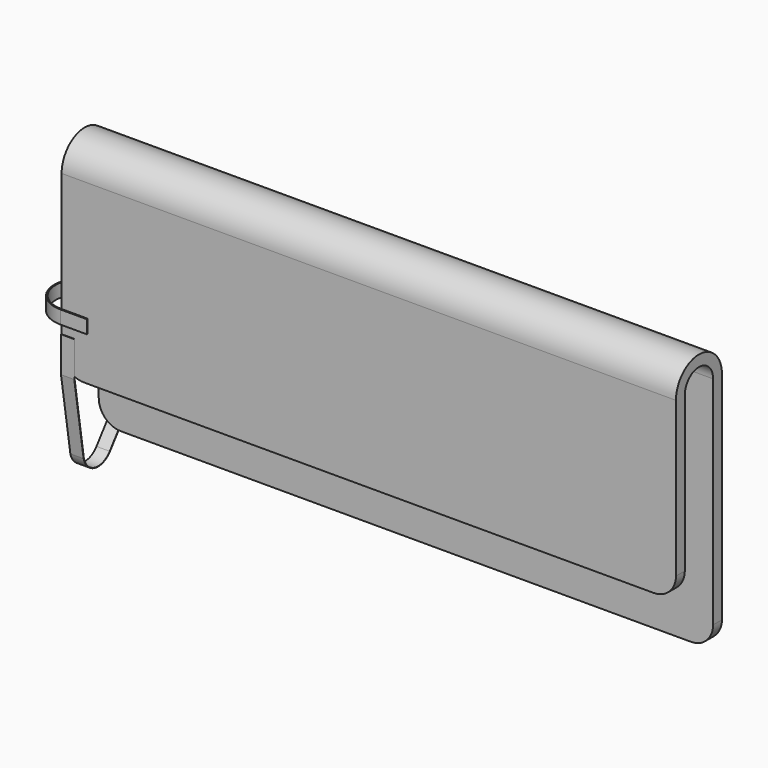
from build123d import *

# Parameters (mm, degrees)
F1_DEPTH  = 1390
F2_W      = 230
F2_H      = 70
F3_DEPTH  = 25
F4_R      = 50
F5_DEPTH  = 30
F8_DEPTH  = 30
F9_W      = 290
F9_H      = 150
F9_W_2    = 230
F9_H_2    = 70
F10_DEPTH = 3
F11_R     = 20


with BuildPart() as f1:
    # F0 (on Right) → F1 (new body)
    with BuildSketch(Plane.YZ):
        with BuildLine():
            ThreePointArc((65, 0), (0, 65), (-65, 0))
            Line((-65, 0), (-65, -400))
            Line((-65, -400), (-40, -400))
            Line((-40, -400), (-40, 0))
            ThreePointArc((-40, 0), (0, 40), (40, 0))
            Line((40, 0), (40, -540))
            Line((40, -540), (65, -540))
            Line((65, -540), (65, 0))
        make_face()
    extrude(amount=F1_DEPTH)

    # F2 (on face) → F3 (cut, through all)
    with BuildSketch(Plane(origin=(0, 65, 0), x_dir=(-1, 0, 0), z_dir=(0, 1, 0))):
        with Locations((-695, -130)):
            Rectangle(F2_W, F2_H)
    extrude(amount=-F3_DEPTH, mode=Mode.SUBTRACT)

    # F4
    f4_edges = [f1.edges().sort_by_distance(p)[0] for p in [
        (1390, 52.5, -540),
        (0, 52.5, -540),
        (0, -52.5, -400),
        (1390, -52.5, -400),
    ]]
    fillet(f4_edges, radius=F4_R)

    # F9 (on face) → F10 (join)
    with BuildSketch(Plane(origin=(0, 65, 0), x_dir=(-1, 0, 0), z_dir=(0, 1, 0))):
        with Locations((-695, -140)):
            Rectangle(F9_W, F9_H)
        with Locations((-695, -130)):
            Rectangle(F9_W_2, F9_H_2, mode=Mode.SUBTRACT)
        with Locations((-695, -130)):
            Rectangle(F9_W_2, F9_H_2)
    extrude(amount=F10_DEPTH)

    # F11
    f11_edges = [f1.edges().sort_by_distance(p)[0] for p in [
        (840, 66.5, -215),
        (550, 66.5, -215),
    ]]
    fillet(f11_edges, radius=F11_R)


with BuildPart() as f5:
    # F0 (on Right) → F5 (new body)
    with BuildSketch(Plane.YZ):
        with BuildLine():
            Line((67.589127, -487.500817), (66.390976, -487.500817))
            Line((66.390976, -487.500817), (66.390976, -540.552855))
            Line((66.390976, -540.552855), (33.6189, -583.865774))
            ThreePointArc((33.6189, -583.865774), (-7.811794, -599.364146), (-39.499422, -568.499989))
            Line((-39.499422, -568.499989), (-65.709807, -400.19536))
            Line((-65.709807, -400.19536), (-65.709807, -319.776297))
            Line((-65.709807, -319.776297), (-66.764809, -319.776297))
            Line((-66.764809, -319.776297), (-66.764809, -400.12297))
            Line((-66.764809, -400.12297), (-40.270056, -568.527225))
            ThreePointArc((-40.270056, -568.527225), (-8.098614, -600.083801), (34.161845, -584.435387))
            Line((34.161845, -584.435387), (67.589127, -540.552855))
            Line((67.589127, -540.552855), (67.589127, -487.500817))
        make_face()
    extrude(amount=F5_DEPTH)


with BuildPart() as f8:
    # F7 (on offset) → F8 (new body)
    with BuildSketch(Plane.XY.offset(-300)):
        with BuildLine():
            Line((59.277002, 65.638982), (59.277002, 68))
            Line((59.277002, 68), (0, 68))
            ThreePointArc((0, 68), (-68.189298, 0), (0, -68))
            Line((0, -68), (59.277002, -68))
            Line((59.277002, -68), (59.277002, -65.263636))
            Line((59.277002, -65.263636), (0, -65.263636))
            ThreePointArc((0, -65.263636), (-65.451309, 0.187673), (0, 65.638982))
            Line((0, 65.638982), (59.277002, 65.638982))
        make_face()
    extrude(amount=F8_DEPTH)


solid = Compound([f1.part, f5.part, f8.part])
